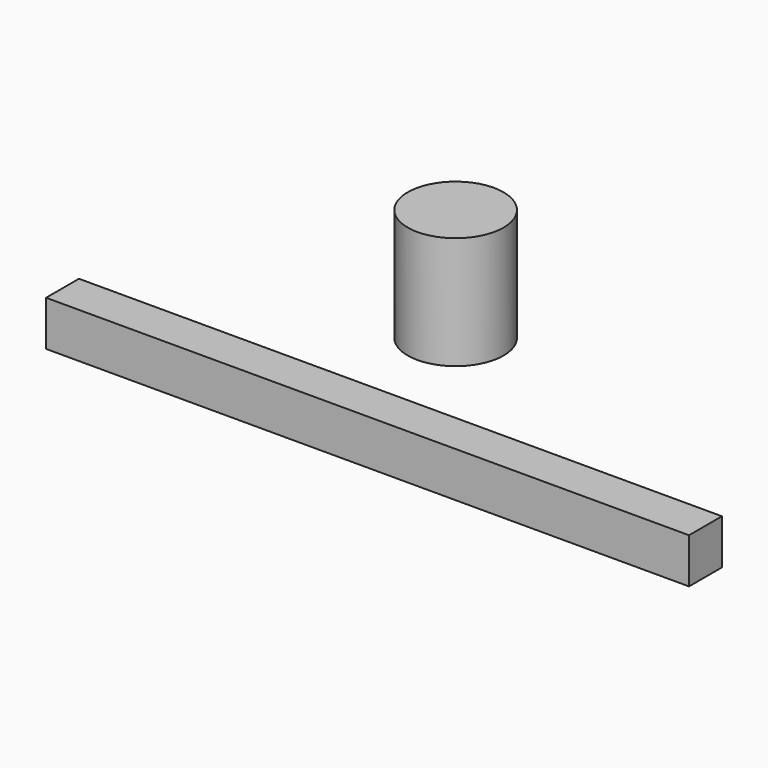
from build123d import *

# Parameters (mm, degrees)
F0_W     = 144.94598
F0_H     = 9.269802
F1_DEPTH = 10.16
F0_R     = 10.803259
F2_DEPTH = 25.4


with BuildPart() as f1:
    # F0 (on Top) → F1 (new body)
    with BuildSketch(Plane.XY):
        Rectangle(F0_W, F0_H)
    extrude(amount=F1_DEPTH)


with BuildPart() as f2:
    # F0 (on Top) → F2 (new body)
    with BuildSketch(Plane.XY):
        with Locations((-18.804194, 43.692101)):
            Circle(F0_R)
    extrude(amount=F2_DEPTH)


solid = Compound([f1.part, f2.part])
